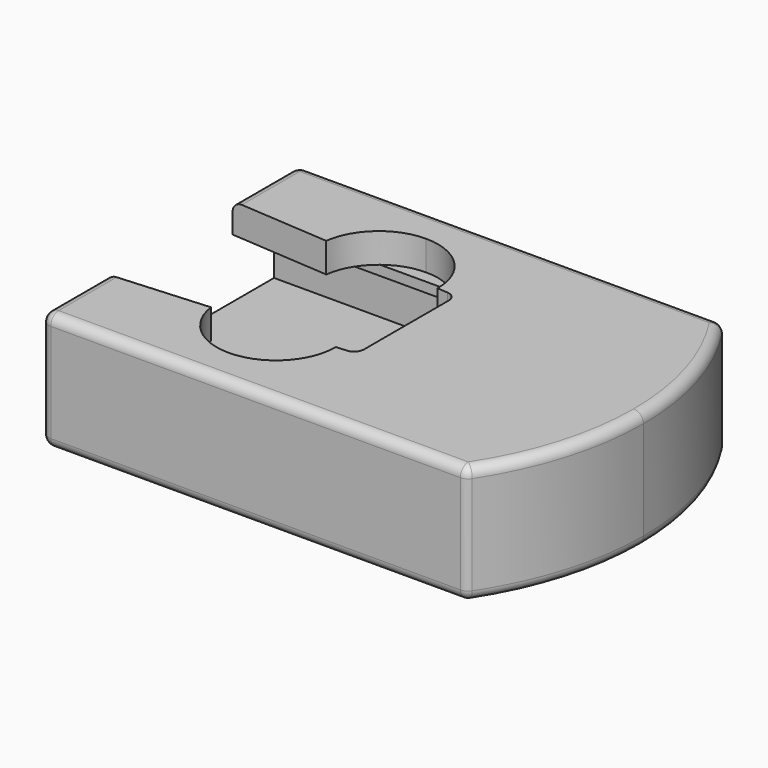
from build123d import *

# Parameters (mm, degrees)
F1_DEPTH = 12
F2_T     = -3
F4_DEPTH = 3
F5_R     = 1
F6_W     = 32
F6_H     = 19
F6_W_2   = 30
F6_H_2   = 17
F7_DEPTH = 1
F9_DEPTH = 1
F10_R    = 1


with BuildPart() as f1:
    # F0 (on Top) → F1 (new body)
    with BuildSketch(Plane.XY):
        with BuildLine():
            Line((-24, -16.25), (19, -16.25))
            ThreePointArc((19, -16.25), (22.7217369359, -8.5009191815), (24, -2.376e-07))
            ThreePointArc((24, -2.376e-07), (22.7217370058, 8.5009189544), (19, 16.25))
            Line((19, 16.25), (-24, 16.25))
            Line((-24, 16.25), (-24, -16.25))
        make_face()
    extrude(amount=F1_DEPTH)

    # F2
    f2_openings = [f1.faces().sort_by_distance(p)[0] for p in [
        (-24, 0, 6),
    ]]
    offset(amount=F2_T, openings=f2_openings)

    # F3 (on face) → F4 (cut, through all)
    with BuildSketch(Plane.XY.offset(12)):
        with BuildLine():
            ThreePointArc((-8, 12.5), (-11.9542437084, 11.0126440912), (-13.9480315021, 7.2879855647))
            Line((-13.9480315021, 7.2879855647), (-2, 6.4416666667))
            Line((-2, 6.4416666667), (-2, 6.5))
            ThreePointArc((-2, 6.5), (-3.7573593129, 10.7426406871), (-8, 12.5))
        make_face()
        with BuildLine():
            Line((-2, 6.4416666667), (-13.9480315021, 7.2879855647))
            ThreePointArc((-13.9480315021, 7.2879855647), (-13.9869937787, 6.8948486973), (-14, 6.5))
            Line((-14, 6.5), (-14, -6.5))
            ThreePointArc((-14, -6.5), (-13.9869937787, -6.8948486973), (-13.9480315021, -7.2879855647))
            Line((-13.9480315021, -7.2879855647), (-2, -6.4416666667))
            Line((-2, -6.4416666667), (-2, 6.4416666667))
        make_face()
        with BuildLine():
            Line((-2, -6.4416666667), (-13.9480315021, -7.2879855647))
            ThreePointArc((-13.9480315021, -7.2879855647), (-11.9542437084, -11.0126440912), (-8, -12.5))
            ThreePointArc((-8, -12.5), (-3.7573593129, -10.7426406871), (-2, -6.5))
            Line((-2, -6.5), (-2, -6.4416666667))
        make_face()
        with BuildLine():
            Line((-2, 6.4416666667), (-13.9480315021, 7.2879855647))
            ThreePointArc((-13.9480315021, 7.2879855647), (-13.9869937787, 6.8948486973), (-14, 6.5))
            Line((-14, 6.5), (-14, -6.5))
            ThreePointArc((-14, -6.5), (-13.9869937787, -6.8948486973), (-13.9480315021, -7.2879855647))
            Line((-13.9480315021, -7.2879855647), (-2, -6.4416666667))
            Line((-2, -6.4416666667), (-2, 6.4416666667))
        make_face()
        with BuildLine():
            Line((-13.9480315021, 7.2879855647), (-24, 8))
            Line((-24, 8), (-24, -8))
            Line((-24, -8), (-13.9480315021, -7.2879855647))
            ThreePointArc((-13.9480315021, -7.2879855647), (-13.9869937787, -6.8948486973), (-14, -6.5))
            Line((-14, -6.5), (-14, 6.5))
            ThreePointArc((-14, 6.5), (-13.9869937787, 6.8948486973), (-13.9480315021, 7.2879855647))
        make_face()
        Polygon((0, 6.3), (-2, 6.4416666667), (-2, -6.4416666667), (0, -6.3), (0, 0), align=None)
    extrude(amount=-F4_DEPTH, mode=Mode.SUBTRACT)

    # F5
    f5_edges = [f1.edges().sort_by_distance(p)[0] for p in [
        (0, 6.3, 10.5),
        (0, -6.3, 10.5),
    ]]
    fillet(f5_edges, radius=F5_R)

    # F6 (on face) → F7 (cut)
    with BuildSketch(Plane(origin=(0, 0, 0), x_dir=(1, 0, 0), z_dir=(0, 0, -1))):
        Rectangle(F6_W, F6_H)
        Rectangle(F6_W_2, F6_H_2, mode=Mode.SUBTRACT)
    extrude(amount=-F7_DEPTH, mode=Mode.SUBTRACT)

    # F8 (on face) → F9 (join)
    with BuildSketch(Plane(origin=(0, 0, 9), x_dir=(1, 0, 0), z_dir=(0, 0, -1))):
        with BuildLine():
            ThreePointArc((-4.3342804253, 11.25), (-8, 12.5), (-11.6657195747, 11.25))
            Line((-11.6657195747, 11.25), (-4.3342804253, 11.25))
        make_face()
        with BuildLine():
            Line((-4.3342804253, -11.25), (-11.6657195747, -11.25))
            ThreePointArc((-11.6657195747, -11.25), (-8, -12.5), (-4.3342804253, -11.25))
        make_face()
        with BuildLine():
            Line((-24, -11.25), (-24, -13.25))
            Line((-24, -13.25), (17.355180526, -13.25))
            ThreePointArc((17.355180526, -13.25), (21, 0), (17.355180526, 13.25))
            Line((17.355180526, 13.25), (-24, 13.25))
            Line((-24, 13.25), (-24, 11.25))
            Line((-24, 11.25), (-11.6657195747, 11.25))
            ThreePointArc((-11.6657195747, 11.25), (-8, 12.5), (-4.3342804253, 11.25))
            Line((-4.3342804253, 11.25), (2, 11.25))
            Line((2, 11.25), (2, -11.25))
            Line((2, -11.25), (-4.3342804253, -11.25))
            ThreePointArc((-4.3342804253, -11.25), (-8, -12.5), (-11.6657195747, -11.25))
            Line((-11.6657195747, -11.25), (-24, -11.25))
        make_face()
    extrude(amount=F9_DEPTH)

    # F10
    f10_edges = [f1.edges().sort_by_distance(p)[0] for p in [
        (-2.5, -16.25, 12),
        (24, 0, 12),
        (-2.5, 16.25, 12),
        (19, -16.25, 6),
        (19, 16.25, 6),
        (24, 0, 0),
        (-2.5, 16.25, 0),
        (-2.5, -16.25, 0),
        (-24, -16.25, 6),
        (-24, -12.125, 12),
        (-24, 0, 0),
        (-24, 12.125, 12),
        (-24, 16.25, 6),
    ]]
    fillet(f10_edges, radius=F10_R)


solid = f1.part
